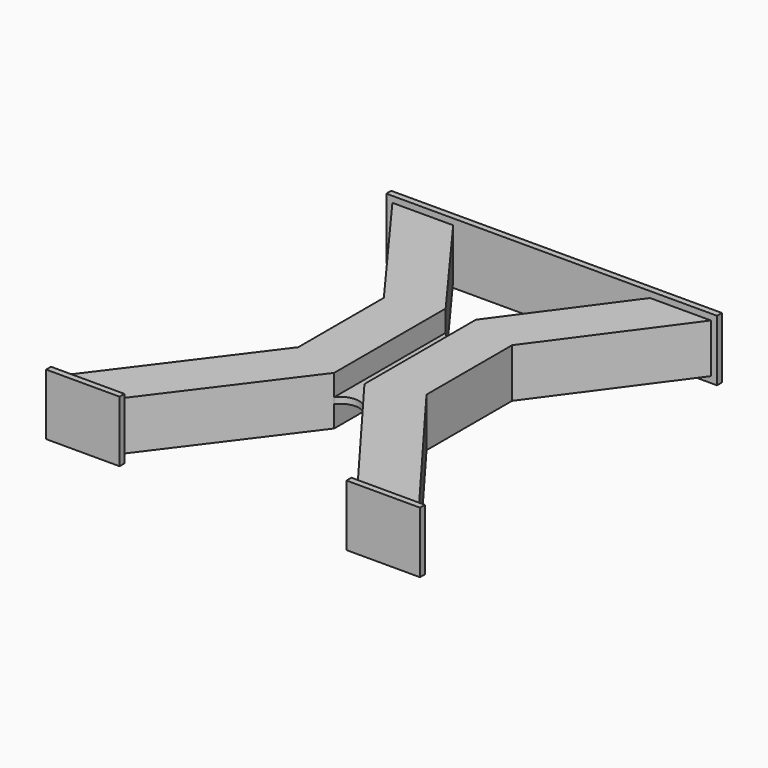
from build123d import *

# Parameters (mm, degrees)
F1_DEPTH      = 50.8
F3_DEPTH      = 57.15
F3_DEPTH_BACK = 6.35
F4_W          = 76.2000850783
F4_H          = 6.35
F4_W_2        = 6.35
F4_W_3        = 63.5000850783
F5_DEPTH      = 6.35
F5_DEPTH_BACK = 57.15
F7_R          = 6.35
F8_DEPTH      = 3.175
F8_DEPTH_BACK = 3.175


with BuildPart() as f1:
    # F0 (on Top) → F1 (new body)
    with BuildSketch(Plane.XY):
        Polygon((136.1647777329, 457.369154054), (73.1556566984, 457.369154054), (171.767788131, 322.9802773173), (171.767788131, 267.5350306093), (171.767788131, 212.0897839013), (50.8, 50.8), (114.3000850783, 50.8), (222.567788131, 195.1564001513), (222.567788131, 339.6189001513), align=None)
    extrude(amount=F1_DEPTH)



with BuildPart() as f1b:
    # F0 (on Top) → F1, piece 2 (new body)
    with BuildSketch(Plane.XY):
        Polygon((304.7435252659, 267.5350306093), (253.9435252659, 267.5350306093), (253.9435252659, 195.1564001513), (362.2112283186, 50.8), (425.7113133969, 50.8), (304.7435252659, 212.0897839013), align=None)
        Polygon((403.3556566984, 457.369154054), (340.3465356639, 457.369154054), (253.9435252659, 339.6189001513), (253.9435252659, 267.5350306093), (304.7435252659, 267.5350306093), (304.7435252659, 322.9802773173), align=None)
    extrude(amount=F1_DEPTH)


with BuildPart() as f1_1:
    add(f1.part)

    add(f1b.part)  # F3 merges F1b
    # F0 (on Top) → F3 (join, two sides)
    with BuildSketch(Plane.XY) as f3_sk:
        Polygon((66.8056566984, 457.369154054), (73.1556566984, 457.369154054), (136.1647777329, 457.369154054), (238.2556566984, 457.369154054), (238.2556566984, 463.719154054), (66.8056566984, 463.719154054), align=None)
        Polygon((238.2556566984, 463.719154054), (238.2556566984, 457.369154054), (340.3465356639, 457.369154054), (403.3556566984, 457.369154054), (409.7056566984, 457.369154054), (409.7056566984, 463.719154054), align=None)
    extrude(amount=F3_DEPTH)
    extrude(f3_sk.sketch, amount=-F3_DEPTH_BACK)

    # F4 (on face) → F5 (join, two sides)
    with BuildSketch(Plane.XY.offset(50.8)) as f5_sk:
        with Locations((82.5500425392, 47.625)):
            Rectangle(F4_W, F4_H)
        with Locations((428.8863133969, 47.625)):
            Rectangle(F4_W_2, F4_H)
        with Locations((393.9612708577, 47.625)):
            Rectangle(F4_W_3, F4_H)
        with Locations((359.0362283186, 47.625)):
            Rectangle(F4_W_2, F4_H)
    extrude(amount=F5_DEPTH)
    extrude(f5_sk.sketch, amount=-F5_DEPTH_BACK)


with BuildPart() as f8:
    # F7 (on offset) → F8 (new body, two sides)
    with BuildSketch(Plane.XY.offset(25.4)) as f8_sk:
        with BuildLine():
            ThreePointArc((253.9435252659, 339.6189001513), (238.2556566984, 331.672130592), (222.567788131, 339.6189001513))
            Line((222.567788131, 339.6189001513), (222.567788131, 195.1564001513))
            ThreePointArc((222.567788131, 195.1564001513), (238.2556566984, 203.1031697107), (253.9435252659, 195.1564001513))
            Line((253.9435252659, 195.1564001513), (253.9435252659, 339.6189001513))
        make_face()
        with Locations((238.2556566984, 267.3876501513)):
            Circle(F7_R, mode=Mode.SUBTRACT)
    extrude(amount=F8_DEPTH)
    extrude(f8_sk.sketch, amount=-F8_DEPTH_BACK)


solid = Compound([f1_1.part, f8.part])
